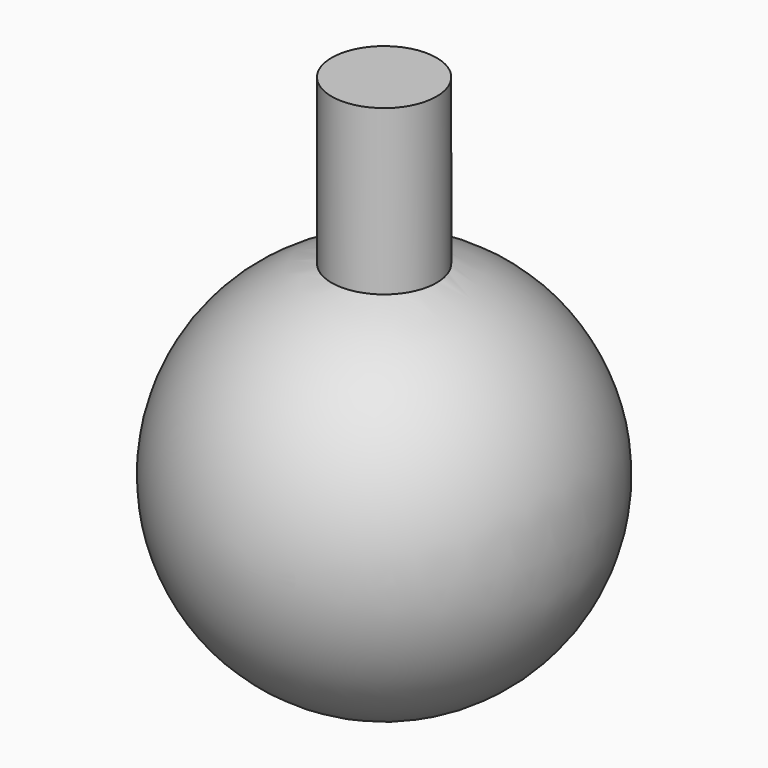
from build123d import *

# Parameters (mm, degrees)
F2_R     = 15
F3_DEPTH = 100


with BuildPart() as f1:
    # F0 (on Top) → F1 (revolve)
    with BuildSketch(Plane.XY):
        with BuildLine():
            Line((0, 0), (0, -55.206579))
            ThreePointArc((0, -55.206579), (55.206579, 0), (0, 55.206579))
            Line((0, 55.206579), (0, 0))
        make_face()
    revolve(axis=Axis((0, -14.605515, 0), (0, 1, 0)))

    # F2 (on Top) → F3 (join)
    with BuildSketch(Plane.XY):
        Circle(F2_R)
    extrude(amount=F3_DEPTH)


solid = f1.part
